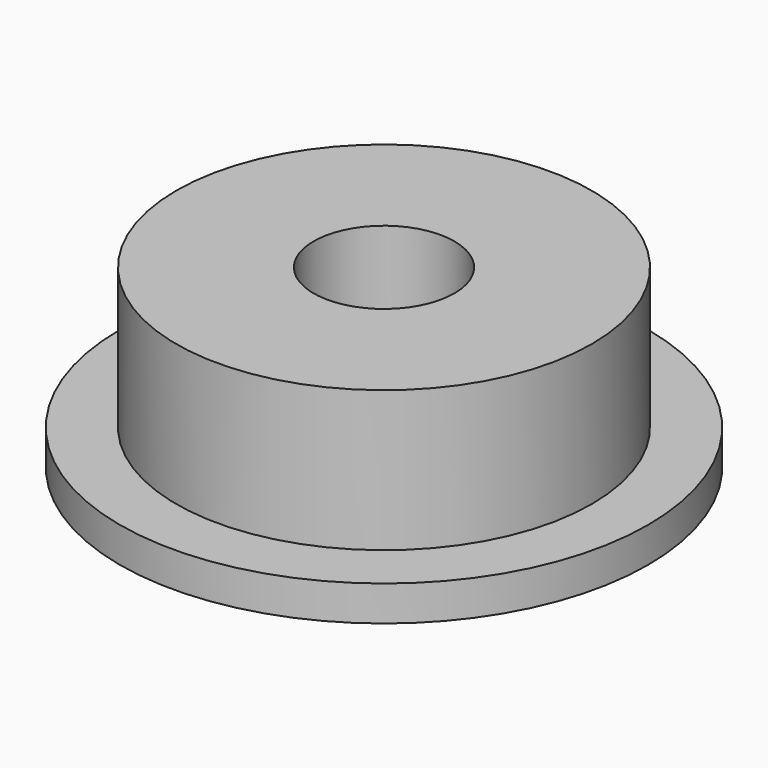
from build123d import *

# Parameters (mm, degrees)
F0_R     = 7.5
F1_DEPTH = 1
F2_R     = 5.9
F3_DEPTH = 4
F4_R     = 2
F5_DEPTH = 25


with BuildPart() as f1:
    # F0 (on Top) → F1 (new body)
    with BuildSketch(Plane.XY):
        with Locations((-54.880984, -32.195751)):
            Circle(F0_R)
    extrude(amount=F1_DEPTH)

    # F2 (on face) → F3 (join)
    with BuildSketch(Plane.XY.offset(1)):
        with Locations((-54.880984, -32.195751)):
            Circle(F2_R)
    extrude(amount=F3_DEPTH)

    # F4 (on face) → F5 (cut)
    with BuildSketch(Plane.XY.offset(5)):
        with Locations((-54.880984, -32.195751)):
            Circle(F4_R)
    extrude(amount=-F5_DEPTH, mode=Mode.SUBTRACT)


solid = f1.part
